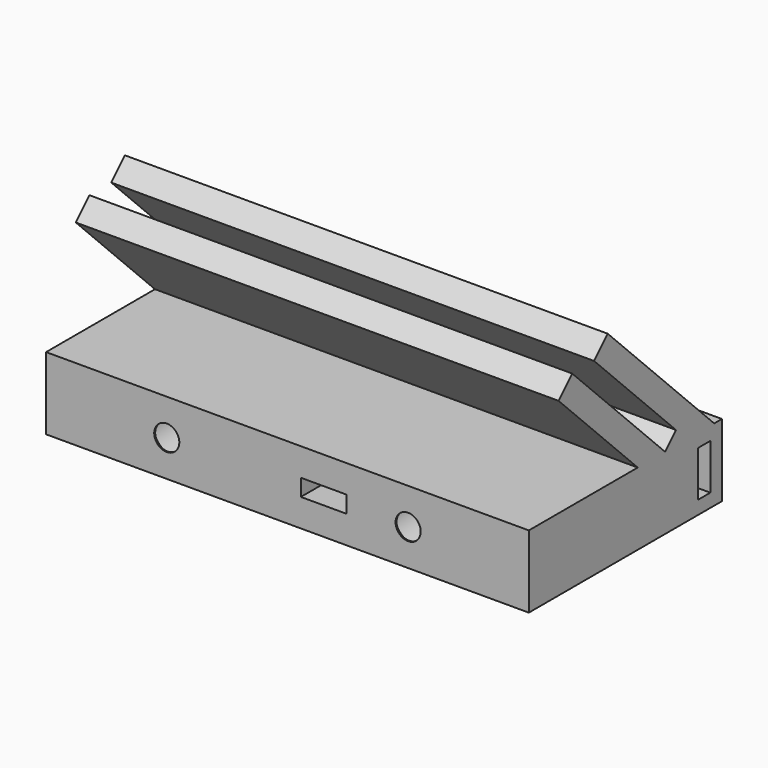
from build123d import *

# Parameters (mm, degrees)
SKETCH011_W     = 100
SKETCH011_H     = 50
PAD003_DEPTH    = 15
PAD004_DEPTH    = 100
SKETCH016_R     = 2.6
POCKET010_DEPTH = 200
PAD005_DEPTH    = 100
SKETCH027_R     = 2.6
POCKET018_DEPTH = 9
POCKET019_START = -5.75
POCKET019_DEPTH = 3.5
SKETCH029_R     = 5.5
POCKET020_DEPTH = 48
CHAMFER002_SIZE = 1.75
SKETCH031_R     = 2.6
POCKET022_DEPTH = 13
POCKET023_START = -3
POCKET023_DEPTH = 3.25


with BuildPart() as part:
    # Sketch011 (on Face1 of ShapeBinder) → Pad003 (new body)
    with BuildSketch(Plane(origin=(248, 180, 0), x_dir=(-1, 0, 0), z_dir=(0, 0, -1))):
        with Locations((124, 31)):
            Rectangle(SKETCH011_W, SKETCH011_H)
    extrude(amount=-PAD003_DEPTH)

    # Sketch012 (on Face5 of Pad003) → Pad004 (join)
    with BuildSketch(Plane(origin=(174, 180, 0), x_dir=(0, 1, 0), z_dir=(1, 0, 0))):
        Polygon((54, 15), (26.422836, 42.577164), (22.887302, 39.041631), (46.928932, 15), align=None)
        Polygon((41.272078, 15), (17.230447, 39.041631), (13.694913, 35.506097), (34.20101, 15), align=None)
    extrude(amount=-PAD004_DEPTH)

    # Sketch016 (on Face1 of Pad004) → Pocket010 (cut)
    with BuildSketch(Plane(origin=(248, 186, 0), x_dir=(1, 0, 0), z_dir=(0, -1, 0))):
        with Locations((-149, 7.5)):
            Circle(SKETCH016_R)
        with Locations((-99, 7.5)):
            Circle(SKETCH016_R)
    extrude(amount=-POCKET010_DEPTH, mode=Mode.SUBTRACT)

    # Sketch017 (on Face3 of Pocket010) → Pad005 (join)
    with BuildSketch(Plane(origin=(174, 180, 0), x_dir=(0, 1, 0), z_dir=(1, 0, 0))):
        Polygon((41.272078, 15), (44.100505, 17.828427), (46.928932, 15), align=None)
    extrude(amount=-PAD005_DEPTH)

    # Sketch027 (on Face2 of Pad005) → Pocket018 (cut)
    with BuildSketch(Plane(origin=(248, 180, 0), x_dir=(-1, 0, 0), z_dir=(0, 0, -1))):
        with Locations((116.5, 23.5)):
            Circle(SKETCH027_R)
        with Locations((131.5, 38.5)):
            Circle(SKETCH027_R)
    extrude(amount=-POCKET018_DEPTH, mode=Mode.SUBTRACT)

    # Sketch028 (on Face2 of Pocket018) → Pocket019 (cut)
    with BuildSketch(Plane(origin=(248, 180, 0), x_dir=(-1, 0, 0), z_dir=(0, 0, -1)).offset(POCKET019_START)):
        Polygon((126.775, 41.22798), (126.775, 35.77202), (131.5, 33.04404), (136.225, 35.77202), (136.225, 41.22798), (136.225, 56), (126.775, 56), align=None)
        Polygon((111.775, 26.22798), (111.775, 20.77202), (111.775, 6), (121.225, 6), (121.225, 20.77202), (121.225, 26.22798), (116.5, 28.95596), align=None)
    extrude(amount=-POCKET019_DEPTH, mode=Mode.SUBTRACT)

    # Sketch029 (on Face12 of Pocket019) → Pocket020 (cut)
    with BuildSketch(Plane(origin=(248, 236, 0), x_dir=(-1, 0, 0), z_dir=(0, 1, 0))):
        with Locations((99, 7.5)):
            Circle(SKETCH029_R)
        with Locations((149, 7.5)):
            Circle(SKETCH029_R)
    extrude(amount=-POCKET020_DEPTH, mode=Mode.SUBTRACT)

    # Chamfer002
    chamfer002_edges = [part.edges().sort_by_distance(p)[0] for p in [
        (146.4, 188, 7.5),
        (96.4, 188, 7.5),
    ]]
    chamfer(chamfer002_edges, length=CHAMFER002_SIZE)

    # Sketch031 (on Face13 of Chamfer002) → Pocket022 (cut)
    with BuildSketch(Plane(origin=(248, 236, 0), x_dir=(-1, 0, 0), z_dir=(0, 1, 0))):
        with Locations((83.75, 7.5)):
            Circle(SKETCH031_R)
        with Locations((164.25, 7.5)):
            Circle(SKETCH031_R)
    extrude(amount=-POCKET022_DEPTH, mode=Mode.SUBTRACT)

    # Sketch032 (on Face15 of Pocket022) → Pocket023 (cut)
    with BuildSketch(Plane(origin=(248, 236, 0), x_dir=(-1, 0, 0), z_dir=(0, 1, 0)).offset(POCKET023_START)):
        Polygon((81.02202, 2.775), (86.47798, 2.775), (89.20596, 7.5), (86.47798, 12.225), (81.02202, 12.225), (74, 12.225), (74, 2.775), align=None)
        Polygon((161.52202, 12.225), (158.79404, 7.5), (161.52202, 2.775), (166.97798, 2.775), (174, 2.775), (174, 12.225), (166.97798, 12.225), align=None)
    extrude(amount=-POCKET023_DEPTH, mode=Mode.SUBTRACT)


solid = part.part
